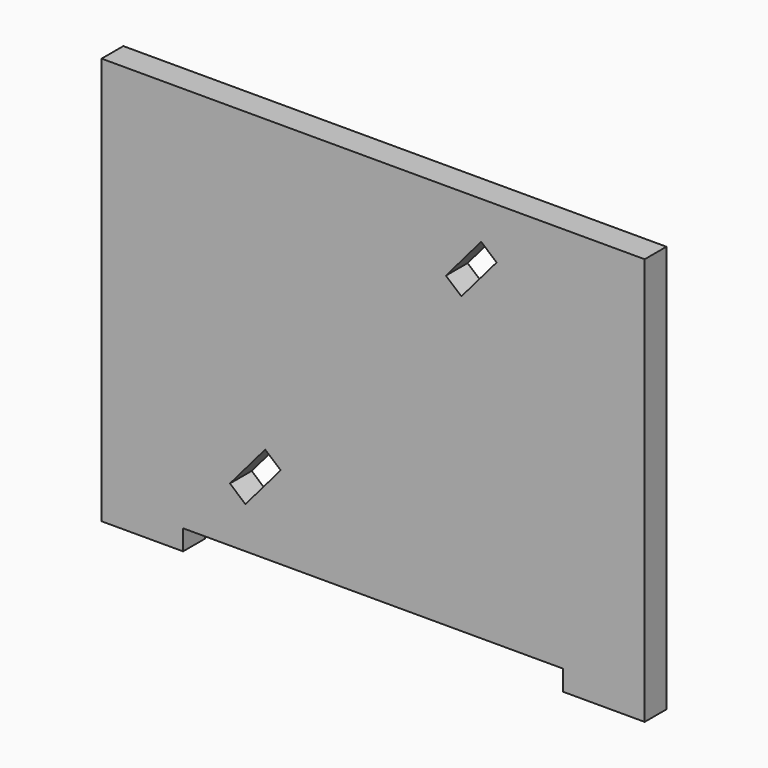
from build123d import *

# Parameters (mm, degrees)
F0_W     = 76.2
F0_H     = 19.05
F1_DEPTH = 25.4


with BuildPart() as f1:
    # F0 (on Front) → F1 (new body)
    with BuildSketch(Plane.XZ):
        Polygon((188.914097, 172.629672), (-319.085903, 172.629672), (-319.085903, -189.320328), (-242.885903, -189.320328), (112.714097, -189.320328), (188.914097, -189.320328), align=None)
        Polygon((-166.066591, -99.527862), (-151.572697, -111.890287), (-184.539165, -150.540669), (-199.033058, -138.178244), align=None, mode=Mode.SUBTRACT)
        Polygon((2.964357, 98.646563), (35.930825, 137.296945), (50.424718, 124.93452), (17.458251, 86.284138), align=None, mode=Mode.SUBTRACT)
        with Locations((-280.985903, -198.845328)):
            Rectangle(F0_W, F0_H)
        with Locations((150.814097, -198.845328)):
            Rectangle(F0_W, F0_H)
    extrude(amount=F1_DEPTH)


solid = f1.part
